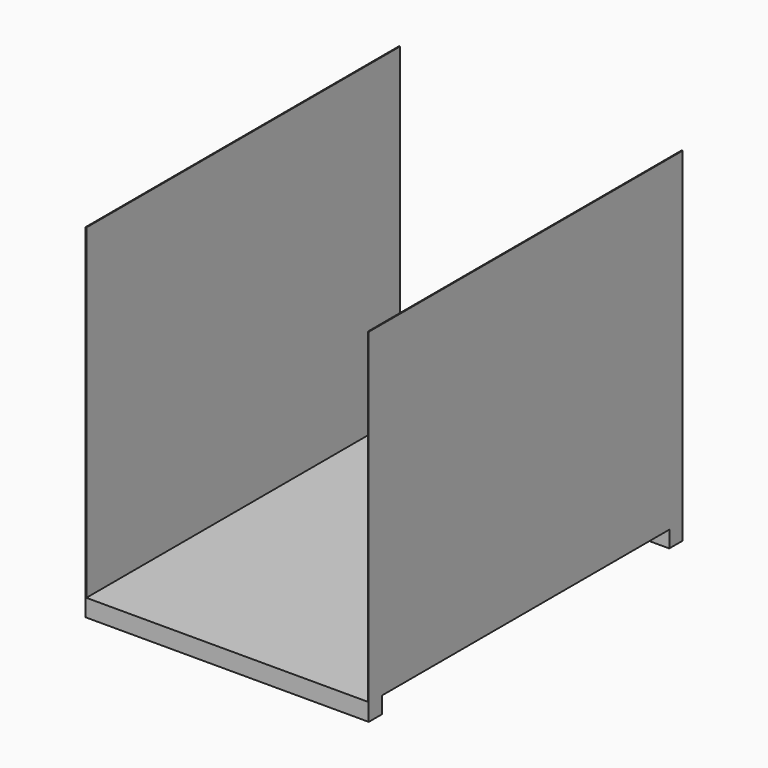
from build123d import *

# Parameters (mm, degrees)
F1_DEPTH = 1800
F2_W     = 76
F2_H     = 76
F3_DEPTH = 1300


with BuildPart() as f1:
    # F0 (on Front) → F1 (new body)
    with BuildSketch(Plane.XZ):
        Polygon((2.1745097741, -49.5584370656), (2.1745097741, 1446.4415629344), (-1.8254902259, 1446.4415629344), (-1.8254902259, -53.5584370656), (1298.1745097741, -53.5584370656), (1298.1745097741, 1446.4415629344), (1294.1745097741, 1446.4415629344), (1294.1745097741, -49.5584370656), align=None)
    extrude(amount=F1_DEPTH)

    # F2 (on face) → F3 (join)
    with BuildSketch(Plane.YZ.offset(1298.1745097741)):
        with Locations((-38, -91.5584370656)):
            Rectangle(F2_W, F2_H)
        with Locations((-1762, -91.5584370656)):
            Rectangle(F2_W, F2_H)
    extrude(amount=-F3_DEPTH)


solid = f1.part
